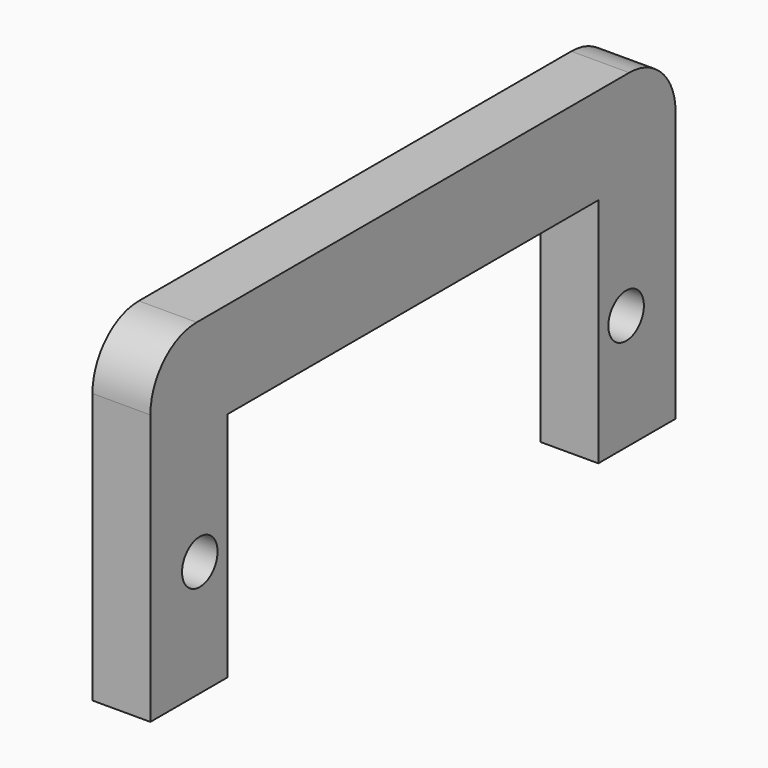
from build123d import *

# Parameters (mm, degrees)
F0_R     = 1.15
F1_DEPTH = 3


with BuildPart() as f1:
    # F0 (on Right) → F1 (new body)
    with BuildSketch(Plane.YZ):
        with BuildLine():
            Line((-12, 0), (-12, 6))
            Line((-12, 6), (12, 6))
            Line((12, 6), (12, 0))
            Line((12, 0), (12, -6))
            Line((12, -6), (17, -6))
            Line((17, -6), (17, 8))
            ThreePointArc((17, 8), (16.12132, 10.12132), (14, 11))
            Line((14, 11), (0, 11))
            Line((0, 11), (-14, 11))
            ThreePointArc((-14, 11), (-16.12132, 10.12132), (-17, 8))
            Line((-17, 8), (-17, -6))
            Line((-17, -6), (-12, -6))
            Line((-12, -6), (-12, 0))
        make_face()
        with Locations((-13.8, 0)):
            Circle(F0_R, mode=Mode.SUBTRACT)
        with BuildLine():
            ThreePointArc((14.95, 0), (13.8, -1.15), (12.65, 0))
            ThreePointArc((12.65, 0), (13.8, 1.15), (14.95, 0))
        make_face(mode=Mode.SUBTRACT)
    extrude(amount=F1_DEPTH)


solid = f1.part
